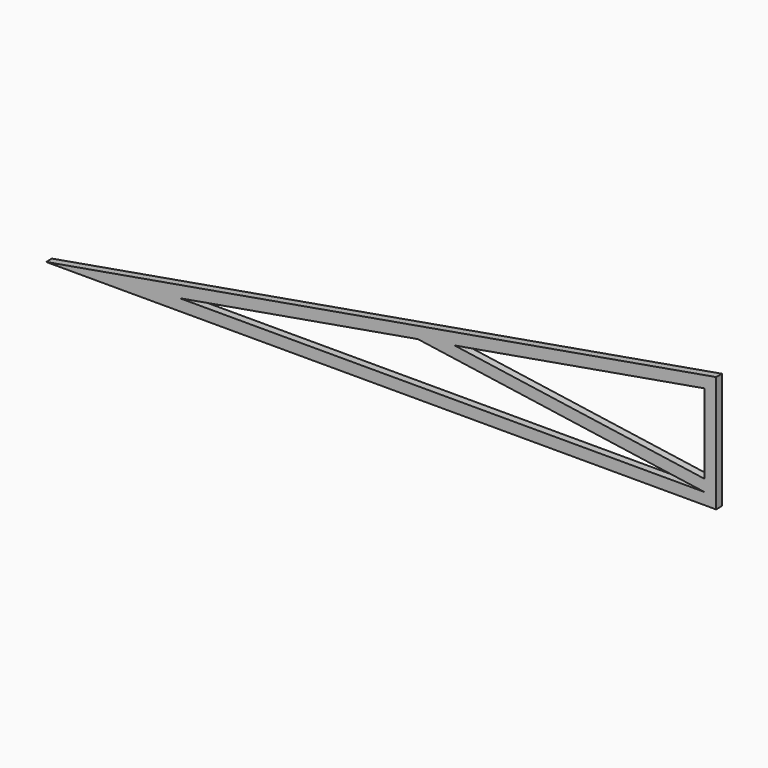
from build123d import *

# Parameters (mm, degrees)
F1_DEPTH = 38.1


with BuildPart() as f1:
    # F0 (on Front) → F1 (new body)
    with BuildSketch(Plane.XZ):
        Polygon((-3505.2, 0), (0, 0), (0, 609.6), align=None)
        Polygon((-2806.255924, 60.325), (-1560.280093, 277.016449), (-60.325, 60.325), align=None, mode=Mode.SUBTRACT)
        Polygon((-60.325, 121.276247), (-1368.837269, 310.310853), (-60.325, 537.878204), align=None, mode=Mode.SUBTRACT)
    extrude(amount=F1_DEPTH)


solid = f1.part
